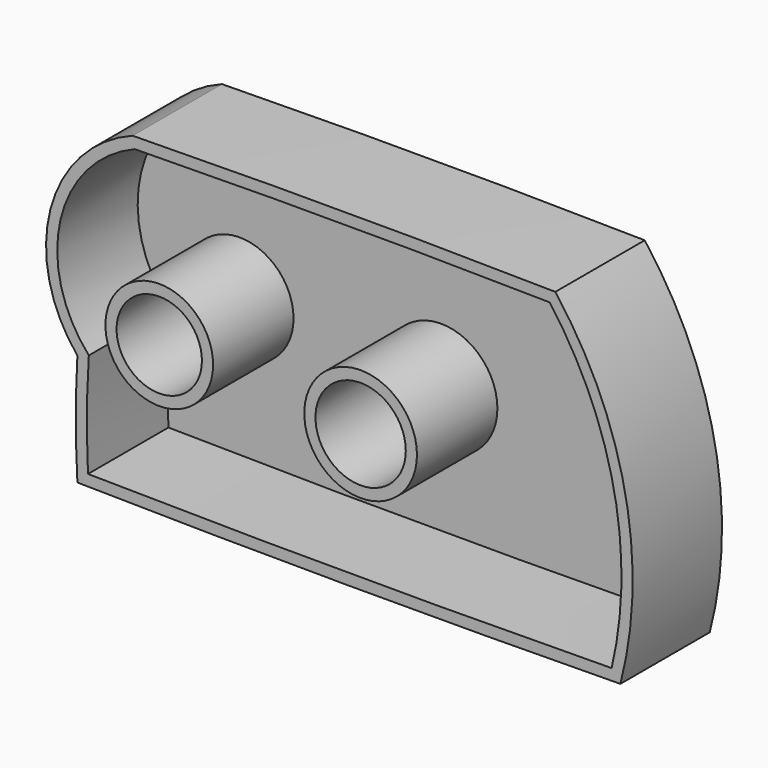
from build123d import *

# Parameters (mm, degrees)
F0_R     = 9.5463982086
F0_R_2   = 10.1052061562
F1_DEPTH = 25
F2_T     = -2.5


with BuildPart() as f1:
    # F0 (on Front) → F1 (new body)
    with BuildSketch(Plane.XZ):
        with BuildLine():
            ThreePointArc((-63.3736327291, -19.9749078602), (-2.6254435723, -20.5386626808), (58.1239726957, -20.1278970252))
            ThreePointArc((58.1239726957, -20.1278970252), (59.2157785581, 17.7962266983), (43.5713953632, 52.3604346985))
            ThreePointArc((43.5713953632, 52.3604346985), (-3.7218306533, 52.7863086545), (-51.0150566697, 52.3604346985))
            ThreePointArc((-51.0150566697, 52.3604346985), (-69.4086528725, 31.8843311692), (-63.3736327291, 5.029653199))
            ThreePointArc((-63.3736327291, 5.029653199), (-63.743030193, -7.4726273306), (-63.3736327291, -19.9749078602))
        make_face()
        with Locations((-45.056629926, 13.0809573457)):
            Circle(F0_R, mode=Mode.SUBTRACT)
        with Locations((0, 10.1740779355)):
            Circle(F0_R_2, mode=Mode.SUBTRACT)
    extrude(amount=F1_DEPTH)

    # F2
    f2_openings = [f1.faces().sort_by_distance(p)[0] for p in [
        (-2.62355, -25, -19.035238),
    ]]
    offset(amount=F2_T, openings=f2_openings, kind=Kind.INTERSECTION)


solid = f1.part
